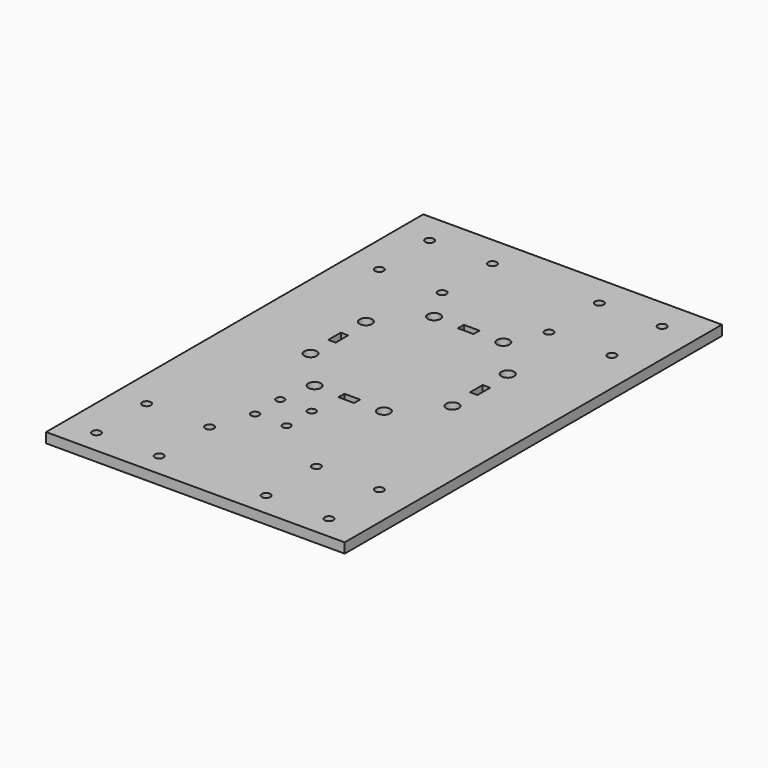
from build123d import *

# Parameters (mm, degrees)
SKETCH_W        = 190
SKETCH_H        = 300
PAD_DEPTH       = 6.35
SKETCH001_R     = 2.75
POCKET_DEPTH    = 6.351
SKETCH002_R     = 4
SKETCH002_W     = 10
SKETCH002_H     = 4.75
SKETCH002_W_2   = 4.75
SKETCH002_H_2   = 10
POCKET001_DEPTH = 6.351
SKETCH003_R     = 4
POCKET002_DEPTH = 6.351
SKETCH004_R     = 2.5781
POCKET003_DEPTH = 6.351


with BuildPart() as part:
    # Sketch → Pad (new body)
    with BuildSketch(Plane.XY):
        with Locations((95, 150)):
            Rectangle(SKETCH_W, SKETCH_H)
    extrude(amount=PAD_DEPTH)

    # Sketch001 → Pocket (cut, through all)
    with BuildSketch(Plane.XY.offset(6.35)):
        with Locations((20, 280)):
            Circle(SKETCH001_R)
        with Locations((20, 240)):
            Circle(SKETCH001_R)
        with Locations((60, 240)):
            Circle(SKETCH001_R)
        with Locations((60, 280)):
            Circle(SKETCH001_R)
        with Locations((128, 280)):
            Circle(SKETCH001_R)
        with Locations((168, 280)):
            Circle(SKETCH001_R)
        with Locations((128, 240)):
            Circle(SKETCH001_R)
        with Locations((168, 240)):
            Circle(SKETCH001_R)
        with Locations((20, 55)):
            Circle(SKETCH001_R)
        with Locations((60, 55)):
            Circle(SKETCH001_R)
        with Locations((20, 15)):
            Circle(SKETCH001_R)
        with Locations((60, 15)):
            Circle(SKETCH001_R)
        with Locations((128, 15)):
            Circle(SKETCH001_R)
        with Locations((168, 55)):
            Circle(SKETCH001_R)
        with Locations((128, 55)):
            Circle(SKETCH001_R)
        with Locations((168, 15)):
            Circle(SKETCH001_R)
    extrude(amount=-POCKET_DEPTH, mode=Mode.SUBTRACT)

    # Sketch002 → Pocket001 (cut, through all)
    with BuildSketch(Plane(origin=(0, 0, 0), x_dir=(1, 0, 0), z_dir=(0, 0, -1))):
        with Locations((49.875, -148)):
            Circle(SKETCH002_R)
        with Locations((49.875, -192)):
            Circle(SKETCH002_R)
        with Locations((140.125, -148)):
            Circle(SKETCH002_R)
        with Locations((140.125, -192)):
            Circle(SKETCH002_R)
        with Locations((95, -122.375)):
            Rectangle(SKETCH002_W, SKETCH002_H)
        with Locations((95, -217.375)):
            Rectangle(SKETCH002_W, SKETCH002_H)
        with Locations((49.875, -170)):
            Rectangle(SKETCH002_W_2, SKETCH002_H_2)
        with Locations((140.125, -170)):
            Rectangle(SKETCH002_W_2, SKETCH002_H_2)
    extrude(amount=-POCKET001_DEPTH, mode=Mode.SUBTRACT)

    # Sketch003 → Pocket002 (cut, through all)
    with BuildSketch(Plane(origin=(0, 0, 0), x_dir=(1, 0, 0), z_dir=(0, 0, -1))):
        with Locations((73, -217.375)):
            Circle(SKETCH003_R)
        with Locations((117, -217.375)):
            Circle(SKETCH003_R)
        with Locations((73, -122.375)):
            Circle(SKETCH003_R)
        with Locations((117, -122.375)):
            Circle(SKETCH003_R)
    extrude(amount=-POCKET002_DEPTH, mode=Mode.SUBTRACT)

    # Sketch004 → Pocket003 (cut, through all)
    with BuildSketch(Plane(origin=(0, 0, 0), x_dir=(1, 0, 0), z_dir=(0, 0, -1))):
        with Locations((69, -80)):
            Circle(SKETCH004_R)
        with Locations((89, -80)):
            Circle(SKETCH004_R)
        with Locations((89, -100)):
            Circle(SKETCH004_R)
        with Locations((69, -100)):
            Circle(SKETCH004_R)
    extrude(amount=-POCKET003_DEPTH, mode=Mode.SUBTRACT)


solid = part.part
